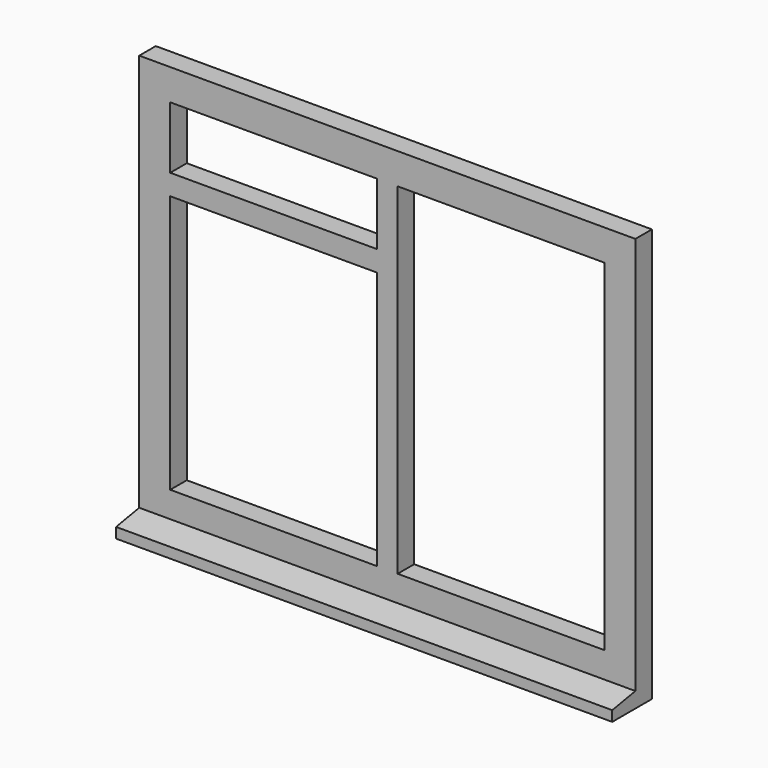
from build123d import *

# Parameters (mm, degrees)
F0_W     = 1200
F0_H     = 1000
F0_W_2   = 500
F0_H_2   = 625
F0_H_3   = 150
F0_H_4   = 825
F1_DEPTH = 50
F3_DEPTH = 1200


with BuildPart() as f1:
    # F0 (on Front) → F1 (new body)
    with BuildSketch(Plane.XZ):
        with Locations((600, -500)):
            Rectangle(F0_W, F0_H)
        with Locations((325, -587.5)):
            Rectangle(F0_W_2, F0_H_2, mode=Mode.SUBTRACT)
        with Locations((325, -150)):
            Rectangle(F0_W_2, F0_H_3, mode=Mode.SUBTRACT)
        with Locations((875, -487.5)):
            Rectangle(F0_W_2, F0_H_4, mode=Mode.SUBTRACT)
    extrude(amount=-F1_DEPTH)

    # F2 (on face) → F3 (join)
    with BuildSketch(Plane.YZ.offset(1200)):
        Polygon((-70, -1000), (0, -1000), (0, -962.657111), (-70, -975), align=None)
    extrude(amount=-F3_DEPTH)


solid = f1.part
